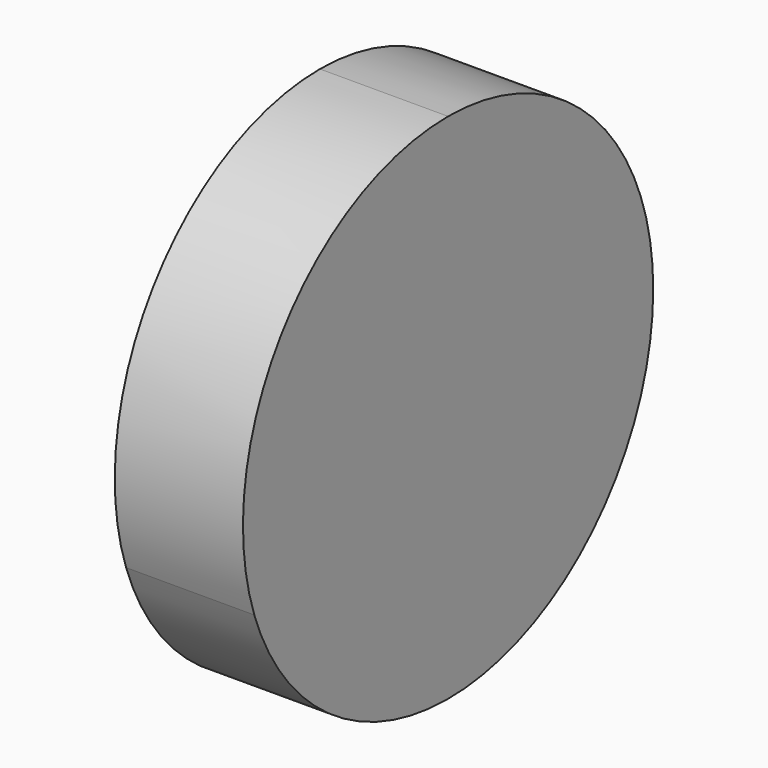
from build123d import *

# Parameters (mm, degrees)
F1_DEPTH = 25


with BuildPart() as f1:
    # F0 (on Right) → F1 (new body)
    with BuildSketch(Plane.YZ):
        with BuildLine():
            ThreePointArc((-47.236717, -16.391845), (8.311563, -49.30434), (50, 0))
            ThreePointArc((50, 0), (35.355339, 35.355339), (0, 50))
            Line((0, 50), (-24.420255, -23.928625))
            Line((-24.420255, -23.928625), (-47.236717, -16.391845))
        make_face()
        with BuildLine():
            Line((-24.420255, -23.928625), (0, 50))
            ThreePointArc((0, 50), (-40.740596, 28.98627), (-47.236717, -16.391845))
            Line((-47.236717, -16.391845), (-24.420255, -23.928625))
        make_face()
    extrude(amount=F1_DEPTH)


solid = f1.part
